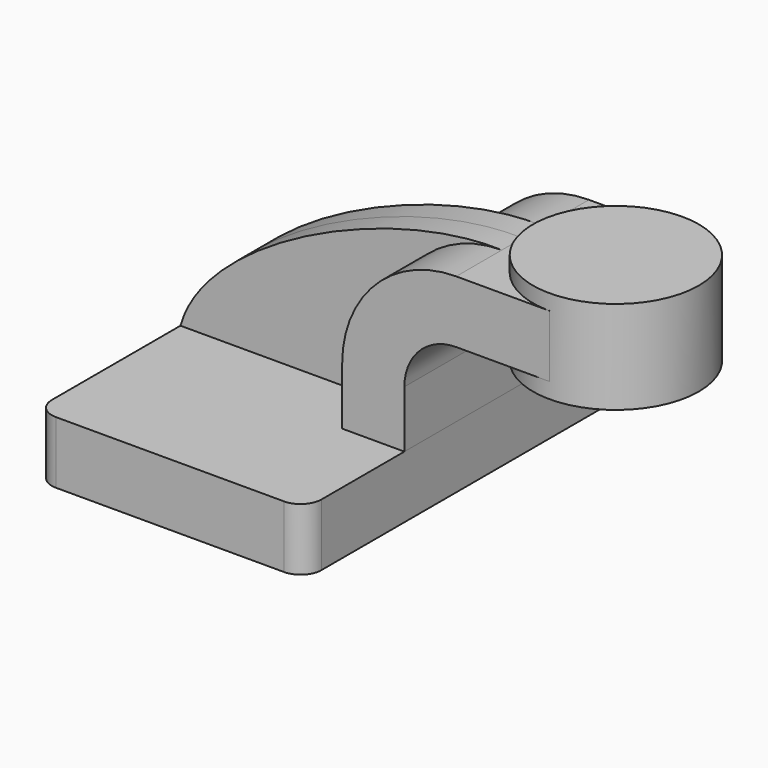
from build123d import *

# Parameters (mm, degrees)
F1_DEPTH = 63.5
F0_W     = 25.4
F0_H     = 19.05
F2_DEPTH = 25.4
F3_DEPTH = 7.9375
F5_R     = 6.35


with BuildPart() as f1:
    # F0 (on Front) → F1 (new body, symmetric)
    with BuildSketch(Plane.XZ):
        Polygon((41.275, -9.525), (41.275, 9.525), (22.225, 9.525), (-41.275, 9.525), (-41.275, -9.525), align=None)
    extrude(amount=F1_DEPTH, both=True)

    # F5
    f5_edges = [f1.edges().sort_by_distance(p)[0] for p in [
        (-41.275, -63.5, 0),
        (41.275, -63.5, 0),
        (-41.275, 63.5, 0),
        (41.275, 63.5, 0),
    ]]
    fillet(f5_edges, radius=F5_R)


with BuildPart() as f2:
    # F0 (on Front) → F2 (new body, symmetric)
    with BuildSketch(Plane.XZ):
        with BuildLine():
            Line((22.225, 9.525), (41.275, 9.525))
            Line((41.275, 9.525), (41.275, 27.0002))
            ThreePointArc((41.275, 27.0002), (45.9246798487, 38.2255201513), (57.15, 42.8752))
            Line((57.15, 42.8752), (60.325, 42.8752))
            Line((60.325, 42.8752), (60.325, 61.9252))
            Line((60.325, 61.9252), (57.15, 61.9252))
            ThreePointArc((57.15, 61.9252), (32.4542956671, 51.6959043329), (22.225, 27.0002))
            Line((22.225, 27.0002), (22.225, 9.525))
        make_face()
        with Locations((73.025, 52.4002)):
            Rectangle(F0_W, F0_H)
    extrude(amount=F2_DEPTH, both=True)


with BuildPart() as f3:
    # F0 (on Front) → F3 (new body, symmetric)
    with BuildSketch(Plane.XZ):
        with BuildLine():
            Line((-41.275, 9.525), (22.225, 9.525))
            Line((22.225, 9.525), (22.225, 27.0002))
            ThreePointArc((22.225, 27.0002), (32.4542956671, 51.6959043329), (57.15, 61.9252))
            add(Edge.make_bspline(
                [(-41.275, 9.525), (-33.5592367287, 37.3656127197), (23.0512869774, 63.119604878), (57.15, 61.9252)],
                knots=[0, 0, 0, 0, 111.5045361635, 111.5045361635, 111.5045361635, 111.5045361635], degree=3))
        make_face()
    extrude(amount=F3_DEPTH, both=True)


with BuildPart() as f4:
    # F0 (on Front) → F4 (revolve)
    with BuildSketch(Plane.XZ):
        Polygon((85.725, 61.9252), (85.725, 42.8752), (85.725, 38.1), (111.125, 38.1), (111.125, 66.675), (85.725, 66.675), align=None)
    revolve(axis=Axis((85.725, 0, 52.3875), (0, 0, 1)))


solid = Compound([f1.part, f2.part, f3.part, f4.part])
